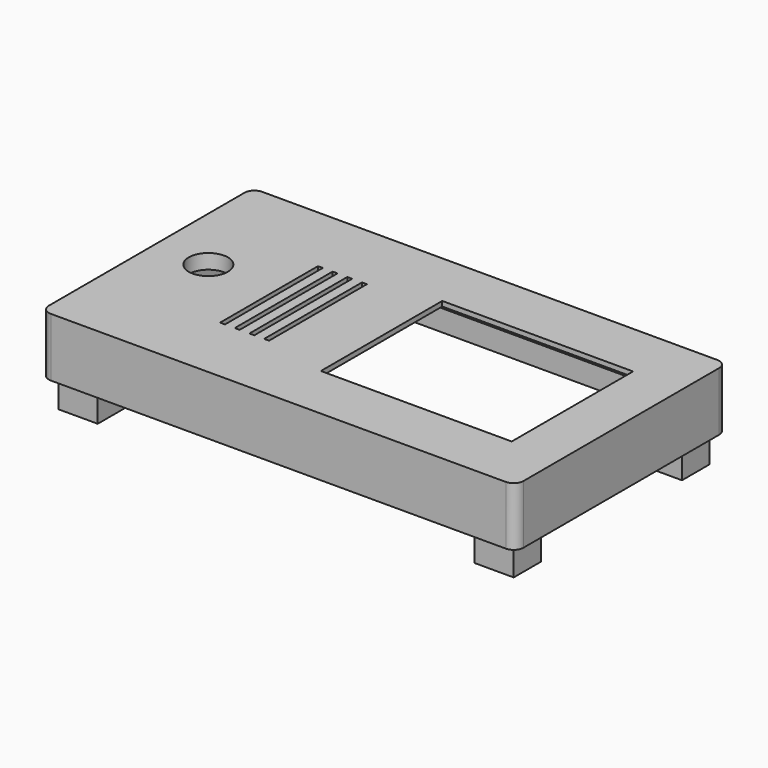
from build123d import *

# Parameters (mm, degrees)
SKETCH_W        = 97
SKETCH_H        = 54
SKETCH_R        = 4
SKETCH_W_2      = 39
SKETCH_H_2      = 31
PAD_DEPTH       = 12
SKETCH001_W     = 93
SKETCH001_H     = 50
POCKET_DEPTH    = 9
SKETCH002_W     = 53
SKETCH002_H     = 36
POCKET001_DEPTH = 2
SKETCH003_W     = 1
SKETCH003_H     = 25
POCKET002_DEPTH = 12.001
FILLET_R        = 2
SKETCH004_W     = 8
SKETCH004_H     = 7
SKETCH004_R     = 1.7
PAD001_DEPTH    = 15
POCKET003_DEPTH = 2.5
POCKET004_DEPTH = 2.5
POCKET005_DEPTH = 2.5
POCKET006_DEPTH = 2.5


with BuildPart() as part:
    # Sketch → Pad (new body)
    with BuildSketch(Plane.XY):
        with Locations((48.5, 27)):
            Rectangle(SKETCH_W, SKETCH_H)
        with Locations((11, 29)):
            Circle(SKETCH_R, mode=Mode.SUBTRACT)
        with Locations((67.5, 27)):
            Rectangle(SKETCH_W_2, SKETCH_H_2, mode=Mode.SUBTRACT)
    extrude(amount=PAD_DEPTH)

    # Sketch001 → Pocket (cut)
    with BuildSketch(Plane(origin=(0, 0, 0), x_dir=(1, 0, 0), z_dir=(0, 0, -1))):
        with Locations((48.5, -27)):
            Rectangle(SKETCH001_W, SKETCH001_H)
    extrude(amount=-POCKET_DEPTH, mode=Mode.SUBTRACT)

    # Sketch002 → Pocket001 (cut)
    with BuildSketch(Plane(origin=(0, 0, 9), x_dir=(1, 0, 0), z_dir=(0, 0, -1))):
        with Locations((63.5, -27)):
            Rectangle(SKETCH002_W, SKETCH002_H)
    extrude(amount=-POCKET001_DEPTH, mode=Mode.SUBTRACT)

    # Sketch003 → Pocket002 (cut, through all)
    with BuildSketch(Plane.XY.offset(12)):
        with Locations((28.5, 27)):
            Rectangle(SKETCH003_W, SKETCH003_H)
        with Locations((31.5, 27)):
            Rectangle(SKETCH003_W, SKETCH003_H)
        with Locations((25.5, 27)):
            Rectangle(SKETCH003_W, SKETCH003_H)
        with Locations((34.5, 27)):
            Rectangle(SKETCH003_W, SKETCH003_H)
    extrude(amount=-POCKET002_DEPTH, mode=Mode.SUBTRACT)

    # Fillet
    fillet_edges = [part.edges().sort_by_distance(p)[0] for p in [
        (97, 0, 6),
        (0, 0, 6),
        (97, 54, 6),
        (0, 54, 6),
    ]]
    fillet(fillet_edges, radius=FILLET_R)

    # Sketch004 → Pad001 (new body)
    with BuildSketch(Plane(origin=(0, 0, 9), x_dir=(1, 0, 0), z_dir=(0, 0, -1))):
        with Locations((6, -5.5)):
            Rectangle(SKETCH004_W, SKETCH004_H)
        with Locations((6, -5.5)):
            Circle(SKETCH004_R, mode=Mode.SUBTRACT)
        with Locations((91, -5.5)):
            Rectangle(SKETCH004_W, SKETCH004_H)
        with Locations((91, -5.5)):
            Circle(SKETCH004_R, mode=Mode.SUBTRACT)
        with Locations((6, -48.5)):
            Rectangle(SKETCH004_W, SKETCH004_H)
        with Locations((6, -48.5)):
            Circle(SKETCH004_R, mode=Mode.SUBTRACT)
        with Locations((91, -48.5)):
            Rectangle(SKETCH004_W, SKETCH004_H)
        with Locations((91, -48.5)):
            Circle(SKETCH004_R, mode=Mode.SUBTRACT)
    extrude(amount=PAD001_DEPTH)

    # Sketch006 → Pocket003 (cut)
    with BuildSketch(Plane(origin=(0, 0, -6), x_dir=(1, 0, 0), z_dir=(0, 0, -1))):
        Polygon((7.6, -8.271281), (9.2, -5.5), (7.6, -2.728719), (4.4, -2.728719), (2.8, -5.5), (4.4, -8.271281), align=None)
    extrude(amount=-POCKET003_DEPTH, mode=Mode.SUBTRACT)

    # Sketch007 → Pocket004 (cut)
    with BuildSketch(Plane(origin=(0, 0, -6), x_dir=(1, 0, 0), z_dir=(0, 0, -1))):
        Polygon((92.6, -8.271281), (94.2, -5.5), (92.6, -2.728719), (89.4, -2.728719), (87.8, -5.5), (89.4, -8.271281), align=None)
    extrude(amount=-POCKET004_DEPTH, mode=Mode.SUBTRACT)

    # Sketch008 → Pocket005 (cut)
    with BuildSketch(Plane(origin=(0, 0, -6), x_dir=(1, 0, 0), z_dir=(0, 0, -1))):
        Polygon((7.75, -51.531089), (9.5, -48.5), (7.75, -45.468911), (4.25, -45.468911), (2.5, -48.5), (4.25, -51.531089), align=None)
    extrude(amount=-POCKET005_DEPTH, mode=Mode.SUBTRACT)

    # Sketch010 → Pocket006 (cut)
    with BuildSketch(Plane(origin=(0, 0, -6), x_dir=(1, 0, 0), z_dir=(0, 0, -1))):
        Polygon((92.75, -51.531089), (94.5, -48.5), (92.75, -45.468911), (89.25, -45.468911), (87.5, -48.5), (89.25, -51.531089), align=None)
    extrude(amount=-POCKET006_DEPTH, mode=Mode.SUBTRACT)


solid = part.part
